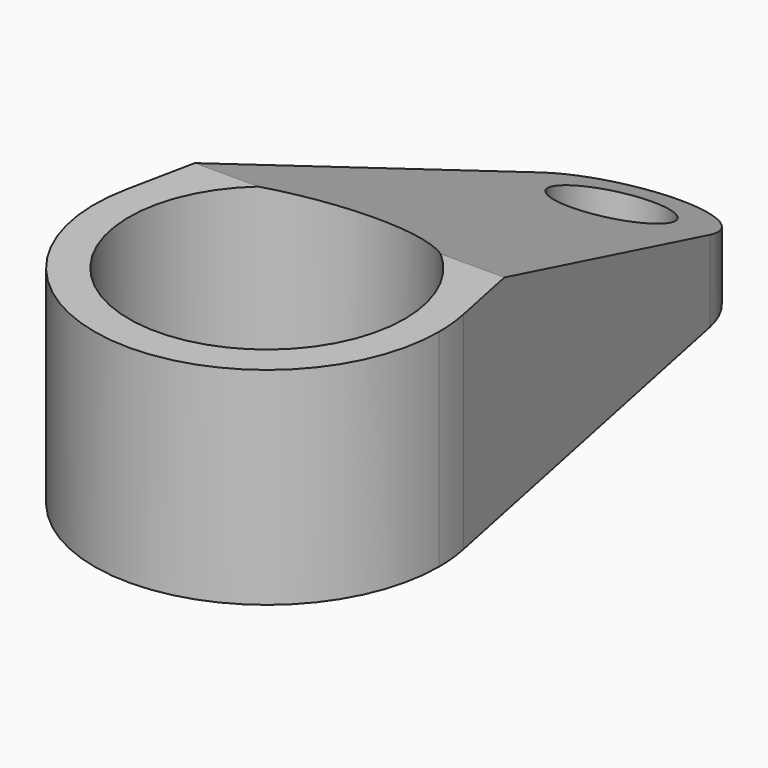
from build123d import *

# Parameters (mm, degrees)
F0_R     = 50.8
F0_R_2   = 19.05
F1_DEPTH = 76.2
F3_DEPTH = 63.5


with BuildPart() as f1:
    # F0 (on Top) → F1 (new body)
    with BuildSketch(Plane.XY):
        with BuildLine():
            ThreePointArc((-62.217039, 12.7), (-6.382319, -63.178446), (63.5, 0))
            ThreePointArc((63.5, 0), (63.178446, 6.382319), (62.217039, 12.7))
            ThreePointArc((62.217039, 12.7), (0, 63.5), (-62.217039, 12.7))
        make_face()
        Circle(F0_R, mode=Mode.SUBTRACT)
        with BuildLine():
            ThreePointArc((-62.217039, 12.7), (0, 63.5), (62.217039, 12.7))
            Line((62.217039, 12.7), (31.10852, 165.1))
            ThreePointArc((31.10852, 165.1), (31.589223, 161.94116), (31.75, 158.75))
            ThreePointArc((31.75, 158.75), (-3.19116, 127.160777), (-31.10852, 165.1))
            Line((-31.10852, 165.1), (-62.217039, 12.7))
        make_face()
        with BuildLine():
            ThreePointArc((31.75, 158.75), (31.589223, 161.94116), (31.10852, 165.1))
            ThreePointArc((31.10852, 165.1), (0, 190.5), (-31.10852, 165.1))
            ThreePointArc((-31.10852, 165.1), (-3.19116, 127.160777), (31.75, 158.75))
        make_face()
        with Locations((0, 158.75)):
            Circle(F0_R_2, mode=Mode.SUBTRACT)
    extrude(amount=F1_DEPTH)

    # F2 (on Right) → F3 (cut, symmetric)
    with BuildSketch(Plane.YZ):
        Polygon((220.365718, 76.2), (38.1, 76.2), (220.365718, 9.860704), align=None)
    extrude(amount=F3_DEPTH, both=True, mode=Mode.SUBTRACT)


solid = f1.part
